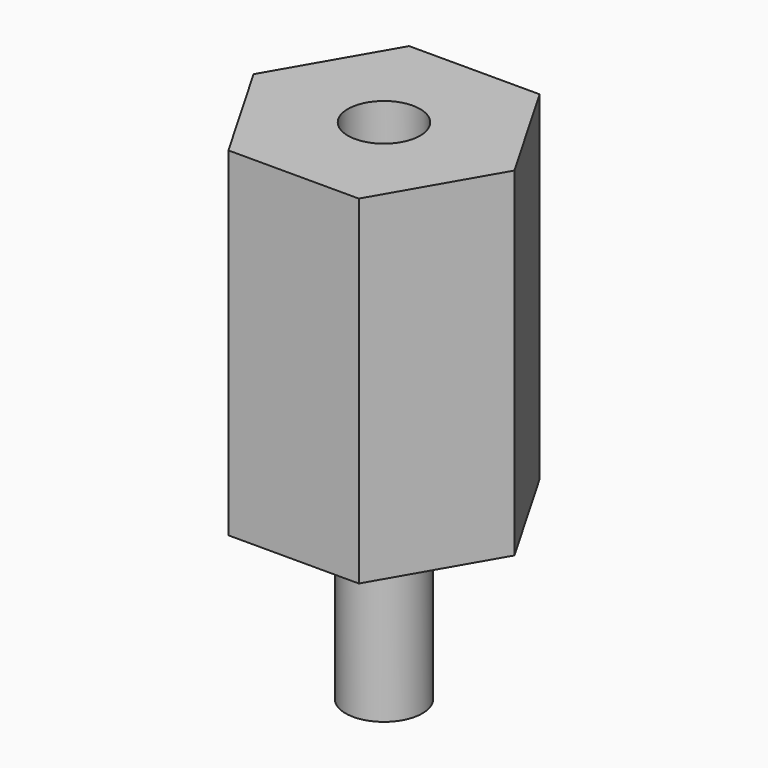
from build123d import *

# Parameters (mm, degrees)
F1_DEPTH = 9.525
F2_R     = 1.0795
F3_DEPTH = 4.7498
F4_R     = 1.016
F5_DEPTH = 4.7498


with BuildPart() as f1:
    # F0 (on Top) → F1 (new body)
    with BuildSketch(Plane.XY):
        Polygon((1.833087, -3.175), (3.666174, 0), (1.833087, 3.175), (-1.833087, 3.175), (-3.666174, 0), (-1.833087, -3.175), align=None)
    extrude(amount=F1_DEPTH)

    # F2 (on face) → F3 (join)
    with BuildSketch(Plane(origin=(0, 0, 0), x_dir=(1, 0, 0), z_dir=(0, 0, -1))):
        Circle(F2_R)
    extrude(amount=F3_DEPTH)

    # F4 (on face) → F5 (cut)
    with BuildSketch(Plane.XY.offset(9.525)):
        Circle(F4_R)
    extrude(amount=-F5_DEPTH, mode=Mode.SUBTRACT)


solid = f1.part
